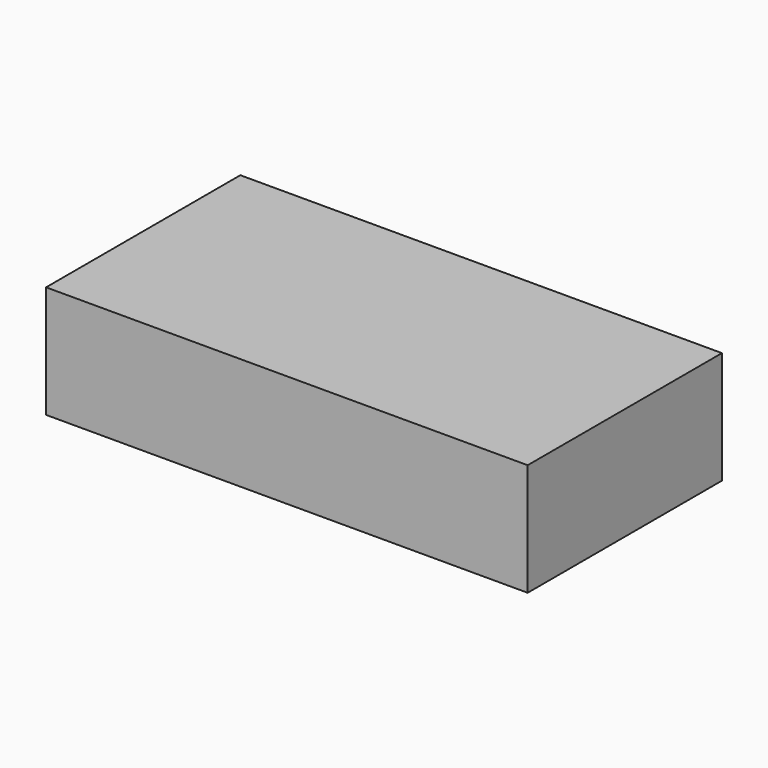
from build123d import *

# Parameters (mm, degrees)
F1_START = -225.425
F0_W     = 762
F0_H     = 177.7191425323
F1_DEPTH = 384.175


with BuildPart() as f1:
    # F0 (on Front) → F1 (new body)
    with BuildSketch(Plane.XZ.offset(F1_START)):
        with Locations((-765.1790530003, 2044.6595712662)):
            Rectangle(F0_W, F0_H)
    extrude(amount=-F1_DEPTH)


solid = f1.part
